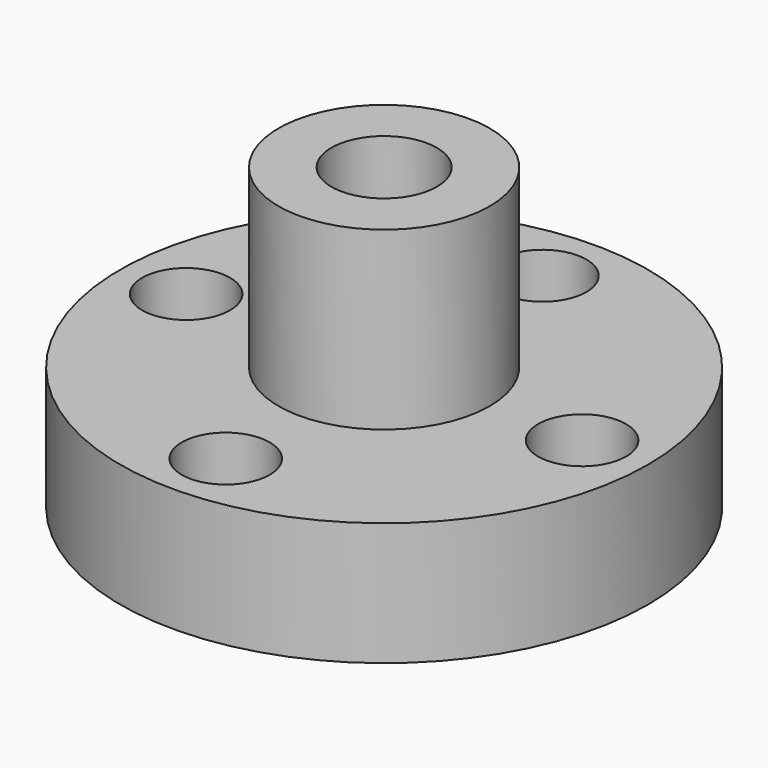
from build123d import *

# Parameters (mm, degrees)
F0_R      = 30
F1_DEPTH  = 14
F2_R      = 12
F3_DEPTH  = 20
F4_R      = 6
F5_DEPTH  = 25
F6_R      = 5
F7_DEPTH  = 34.001
F8_R      = 5
F9_DEPTH  = 34.001
F10_R     = 5
F11_DEPTH = 34.001
F12_R     = 5
F13_DEPTH = 34.001


with BuildPart() as f1:
    # F0 (on Top) → F1 (new body)
    with BuildSketch(Plane.XY):
        Circle(F0_R)
    extrude(amount=F1_DEPTH)

    # F2 (on face) → F3 (join)
    with BuildSketch(Plane.XY.offset(14)):
        Circle(F2_R)
    extrude(amount=F3_DEPTH)

    # F4 (on face) → F5 (cut)
    with BuildSketch(Plane.XY.offset(34)):
        Circle(F4_R)
    extrude(amount=-F5_DEPTH, mode=Mode.SUBTRACT)

    # F6 (on face) → F7 (cut, through all)
    with BuildSketch(Plane(origin=(0, 0, 0), x_dir=(1, 0, 0), z_dir=(0, 0, -1))):
        with Locations((0, -22.5)):
            Circle(F6_R)
    extrude(amount=-F7_DEPTH, mode=Mode.SUBTRACT)

    # F8 (on face) → F9 (cut, through all)
    with BuildSketch(Plane(origin=(0, 0, 0), x_dir=(1, 0, 0), z_dir=(0, 0, -1))):
        with Locations((0, 22.5)):
            Circle(F8_R)
    extrude(amount=-F9_DEPTH, mode=Mode.SUBTRACT)

    # F10 (on face) → F11 (cut, through all)
    with BuildSketch(Plane(origin=(0, 0, 0), x_dir=(1, 0, 0), z_dir=(0, 0, -1))):
        with Locations((-22.5, 0)):
            Circle(F10_R)
    extrude(amount=-F11_DEPTH, mode=Mode.SUBTRACT)

    # F12 (on face) → F13 (cut, through all)
    with BuildSketch(Plane(origin=(0, 0, 0), x_dir=(1, 0, 0), z_dir=(0, 0, -1))):
        with Locations((22.5, 0)):
            Circle(F12_R)
    extrude(amount=-F13_DEPTH, mode=Mode.SUBTRACT)


solid = f1.part
